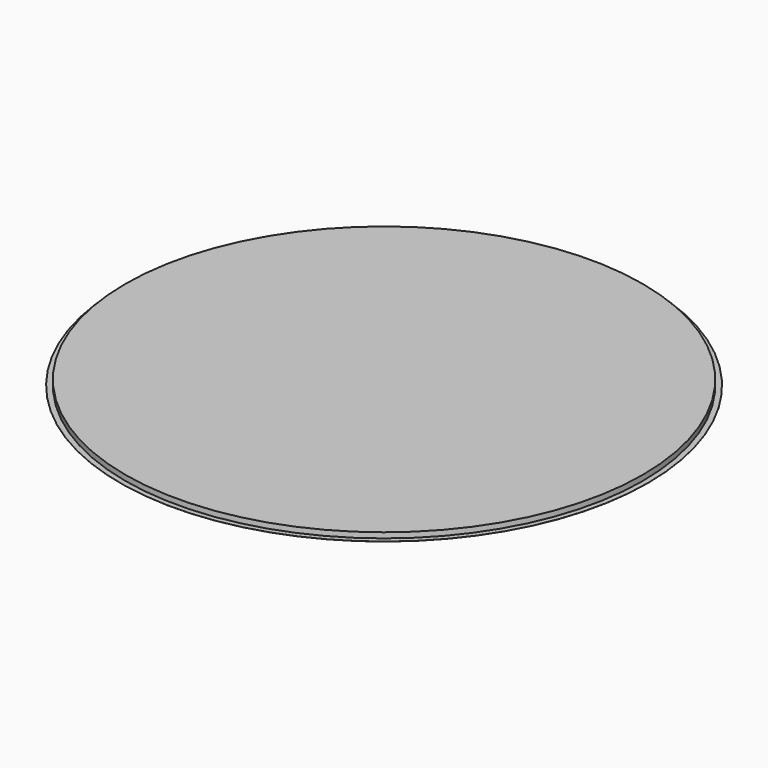
from build123d import *

# Parameters (mm, degrees)
F0_R     = 152.4
F1_DEPTH = 0.0762
F0_R_2   = 155.575
F0_R_3   = 152.4381
F2_DEPTH = 3.2004
F3_DEPTH = 3.175


with BuildPart() as f1:
    # F0 (on Top) → F1 (new body)
    with BuildSketch(Plane.XY):
        Circle(F0_R)
    extrude(amount=-F1_DEPTH)

    # F0 (on Top) → F2 (join)
    with BuildSketch(Plane.XY):
        Circle(F0_R_2)
        Circle(F0_R_3, mode=Mode.SUBTRACT)
        Circle(F0_R_3)
        Circle(F0_R, mode=Mode.SUBTRACT)
    extrude(amount=-F2_DEPTH)

    # F0 (on Top) → F3 (cut)
    with BuildSketch(Plane.XY):
        Circle(F0_R_2)
        Circle(F0_R_3, mode=Mode.SUBTRACT)
    extrude(amount=-F3_DEPTH, mode=Mode.SUBTRACT)


solid = f1.part
